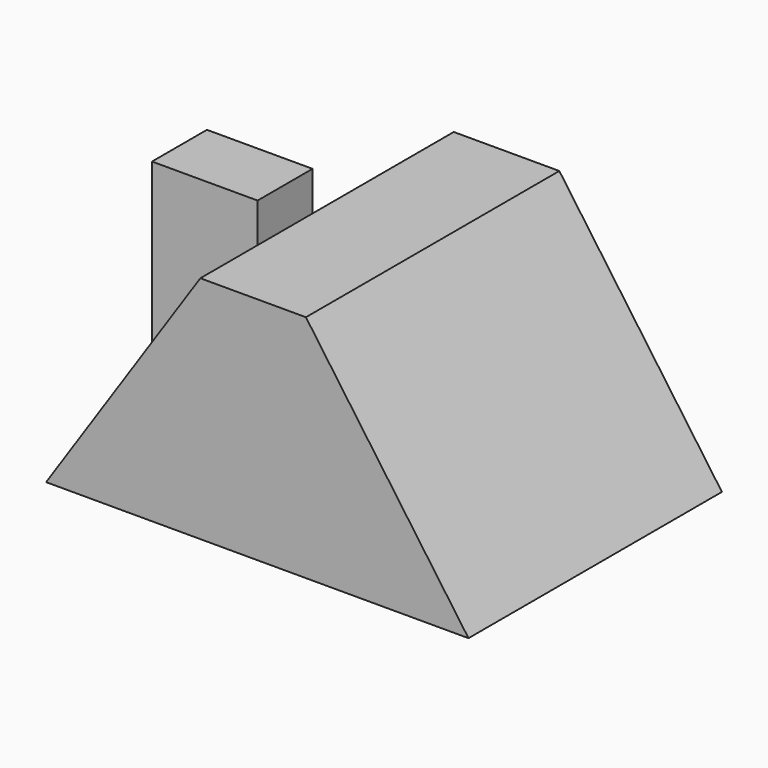
from build123d import *

# Parameters (mm, degrees)
F1_DEPTH  = 76.2
F2_W      = 16.5251810104
F2_H      = 54.9541674554
F1_FACE_W = 76.2
F1_FACE_H = 67.6971774679
F3_DEPTH  = 25.4


with BuildPart() as f1:
    # F0 (on Front) → F1 (new body)
    with BuildSketch(Plane.XZ):
        Polygon((76.2232616544, 0), (37.109632045, 55.2542470396), (0, 0), align=None)
    extrude(amount=F1_DEPTH)

    # F2 (on Right) + F1_face (on face) → F3 (join)
    with BuildSketch(Plane.YZ):
        with Locations((-36.0880820081, 27.4770837277)):
            Rectangle(F2_W, F2_H)
    with BuildSketch(Plane(origin=(56.6664468497, -38.1, 27.6271235198), x_dir=(0, 1, 0), z_dir=(0.8161972051, 0, 0.5777734179))):
        Rectangle(F1_FACE_W, F1_FACE_H)
    extrude(amount=F3_DEPTH, dir=(1, 0, 0))


solid = f1.part
